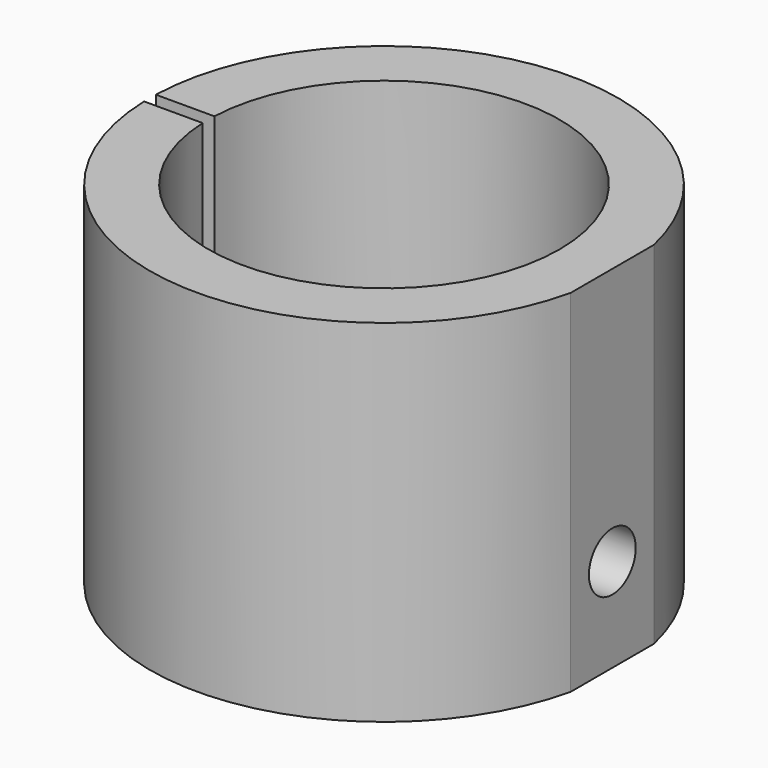
from build123d import *

# Parameters (mm, degrees)
F1_R          = 6.35
F2_DEPTH      = 12.7
F3_DEPTH      = 76.2
F5_DEPTH      = 31.75
F5_DEPTH_BACK = 31.75
F7_DEPTH      = 76.2
F8_R          = 6.35
F9_DEPTH      = 12.7


with BuildPart() as f2:
    # F1 (on face) → F2 (new body)
    with BuildSketch(Plane.XY):
        with BuildLine():
            ThreePointArc((-38.0669127163, 1.5875), (-38.1, 0), (-38.0669127163, -1.5875))
            ThreePointArc((-38.0669127163, -1.5875), (0.7939223857, -38.0917272809), (38.1, 0))
            ThreePointArc((38.1, 0), (0.7939223857, 38.0917272809), (-38.0669127163, 1.5875))
        make_face()
        Circle(F1_R, mode=Mode.SUBTRACT)
    extrude(amount=F2_DEPTH)


with BuildPart() as f2b:
    # F0 (on Top) → F2, piece 2 (new body)
    with BuildSketch(Plane.XY):
        with BuildLine():
            ThreePointArc((-38.0669127163, -1.5875), (-38.1, 0), (-38.0669127163, 1.5875))
            Line((-38.0669127163, 1.5875), (-50.7751892537, 1.5875))
            ThreePointArc((-50.7751892537, 1.5875), (-50.8, 0), (-50.7751892537, -1.5875))
            Line((-50.7751892537, -1.5875), (-38.0669127163, -1.5875))
        make_face()
    extrude(amount=F2_DEPTH)


with BuildPart() as f3:
    # F0 (on Top) → F3 (new body)
    with BuildSketch(Plane.XY):
        with BuildLine():
            ThreePointArc((-38.0669127163, 1.5875), (0.7939223857, 38.0917272809), (38.1, 0))
            ThreePointArc((38.1, 0), (0.7939223857, -38.0917272809), (-38.0669127163, -1.5875))
            Line((-38.0669127163, -1.5875), (-50.7751892537, -1.5875))
            ThreePointArc((-50.7751892537, -1.5875), (0.7938469347, -50.7937969347), (50.8, 0))
            ThreePointArc((50.8, 0), (0.7938469347, 50.7937969347), (-50.7751892537, 1.5875))
            Line((-50.7751892537, 1.5875), (-38.0669127163, 1.5875))
        make_face()
    extrude(amount=F3_DEPTH)

    # F4 (on face) → F5 (cut, two sides)
    with BuildSketch(Plane.XZ.offset(-1.5875)) as f5_sk:
        with BuildLine():
            ThreePointArc((-42.401750985, 68.58), (-42.9931902618, 70.0078607233), (-44.421050985, 70.5993))
            Line((-44.421050985, 70.5993), (-44.421050985, 68.58))
            Line((-44.421050985, 68.58), (-42.401750985, 68.58))
        make_face()
        with BuildLine():
            Line((-44.421050985, 68.58), (-44.421050985, 70.5993))
            ThreePointArc((-44.421050985, 70.5993), (-45.8489117083, 70.0078607232), (-46.440350985, 68.58))
            Line((-46.440350985, 68.58), (-44.421050985, 68.58))
        make_face()
        with BuildLine():
            Line((-44.421050985, 66.5607), (-44.421050985, 68.58))
            Line((-44.421050985, 68.58), (-46.440350985, 68.58))
            ThreePointArc((-46.440350985, 68.58), (-45.8489117083, 67.1521392768), (-44.421050985, 66.5607))
        make_face()
        with BuildLine():
            Line((-42.401750985, 68.58), (-44.421050985, 68.58))
            Line((-44.421050985, 68.58), (-44.421050985, 66.5607))
            ThreePointArc((-44.421050985, 66.5607), (-42.9931902618, 67.1521392768), (-42.401750985, 68.58))
        make_face()
        with BuildLine():
            Line((-44.421050985, 40.64), (-44.421050985, 42.6593))
            ThreePointArc((-44.421050985, 42.6593), (-45.8489117083, 42.0678607232), (-46.440350985, 40.64))
            Line((-46.440350985, 40.64), (-44.421050985, 40.64))
        make_face()
        with BuildLine():
            ThreePointArc((-42.401750985, 40.64), (-42.9931902618, 42.0678607232), (-44.421050985, 42.6593))
            Line((-44.421050985, 42.6593), (-44.421050985, 40.64))
            Line((-44.421050985, 40.64), (-42.401750985, 40.64))
        make_face()
        with BuildLine():
            ThreePointArc((-44.421050985, 38.6207), (-42.9931902618, 39.2121392768), (-42.401750985, 40.64))
            Line((-42.401750985, 40.64), (-44.421050985, 40.64))
            Line((-44.421050985, 40.64), (-44.421050985, 38.6207))
        make_face()
        with BuildLine():
            Line((-44.421050985, 40.64), (-46.440350985, 40.64))
            ThreePointArc((-46.440350985, 40.64), (-45.8489117083, 39.2121392768), (-44.421050985, 38.6207))
            Line((-44.421050985, 38.6207), (-44.421050985, 40.64))
        make_face()
    extrude(amount=-F5_DEPTH, mode=Mode.SUBTRACT)
    extrude(f5_sk.sketch, amount=F5_DEPTH_BACK, mode=Mode.SUBTRACT)

    # F6 (on face) → F7 (cut)
    with BuildSketch(Plane.XY.offset(76.2)):
        with BuildLine():
            ThreePointArc((49.53, -11.28800691), (50.4815015625, -5.6796126628), (50.8, 0))
            Line((50.8, 0), (49.53, 0))
            Line((49.53, 0), (49.53, -11.28800691))
        make_face()
        with BuildLine():
            Line((49.53, 0), (50.8, 0))
            ThreePointArc((50.8, 0), (50.4815015625, 5.6796126628), (49.53, 11.28800691))
            Line((49.53, 11.28800691), (49.53, 0))
        make_face()
    extrude(amount=-F7_DEPTH, mode=Mode.SUBTRACT)

    # F8 (on face) → F9 (cut)
    with BuildSketch(Plane.YZ.offset(49.53)):
        with Locations((0, 20.32)):
            Circle(F8_R)
    extrude(amount=-F9_DEPTH, mode=Mode.SUBTRACT)


solid = Compound([f2.part, f2b.part, f3.part])
